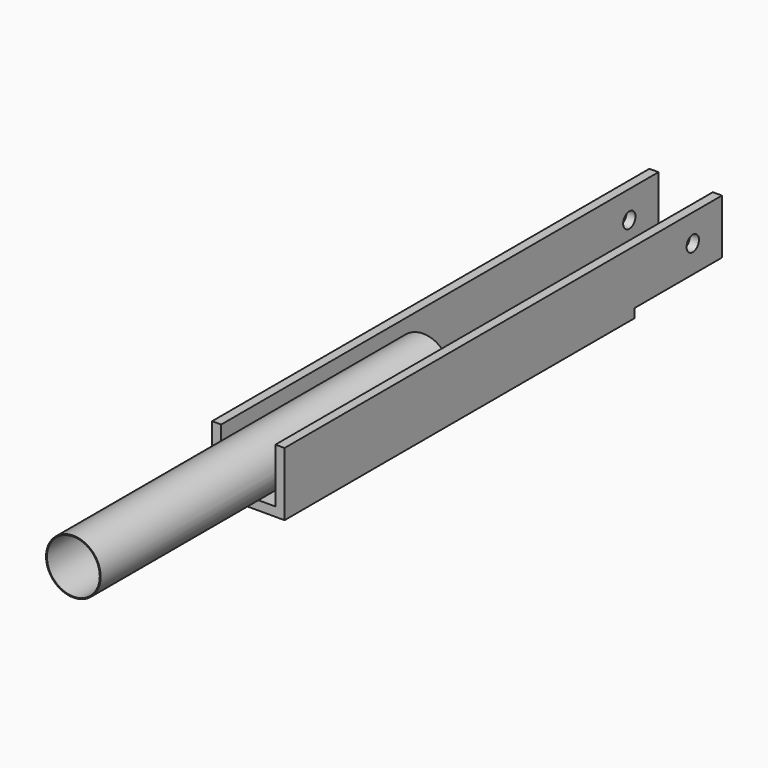
from build123d import *

# Parameters (mm, degrees)
F0_R     = 38.1
F0_R_2   = 36.83
F1_DEPTH = 609.6
F2_W     = 12.7
F2_H     = 76.2
F3_DEPTH = 304.8
F4_DEPTH = 457.2
F5_W     = 101.092
F5_H     = 12.7
F6_DEPTH = 304.8
F7_DEPTH = 304.8
F8_R     = 10.795
F9_DEPTH = 50.8


with BuildPart() as f1:
    # F0 (on Front) → F1 (new body)
    with BuildSketch(Plane.XZ):
        Circle(F0_R)
        Circle(F0_R_2, mode=Mode.SUBTRACT)
    extrude(amount=F1_DEPTH)

    # F2 (on Front) → F3 (join)
    with BuildSketch(Plane.XZ):
        with Locations((44.196, 0)):
            Rectangle(F2_W, F2_H)
        with Locations((-44.196, 0)):
            Rectangle(F2_W, F2_H)
    extrude(amount=F3_DEPTH)

    # F2 (on Front) → F4 (join)
    with BuildSketch(Plane.XZ):
        with Locations((44.196, 0)):
            Rectangle(F2_W, F2_H)
        with Locations((-44.196, 0)):
            Rectangle(F2_W, F2_H)
    extrude(amount=-F4_DEPTH)

    # F5 (on Front) → F6 (join)
    with BuildSketch(Plane.XZ):
        with Locations((0, -44.196)):
            Rectangle(F5_W, F5_H)
    extrude(amount=F6_DEPTH)

    # F5 (on Front) → F7 (join)
    with BuildSketch(Plane.XZ):
        with Locations((0, -44.196)):
            Rectangle(F5_W, F5_H)
    extrude(amount=-F7_DEPTH)

    # F8 (on Right) → F9 (cut, symmetric)
    with BuildSketch(Plane.YZ):
        with Locations((406.4, 0)):
            Circle(F8_R)
    extrude(amount=F9_DEPTH, both=True, mode=Mode.SUBTRACT)


solid = f1.part
